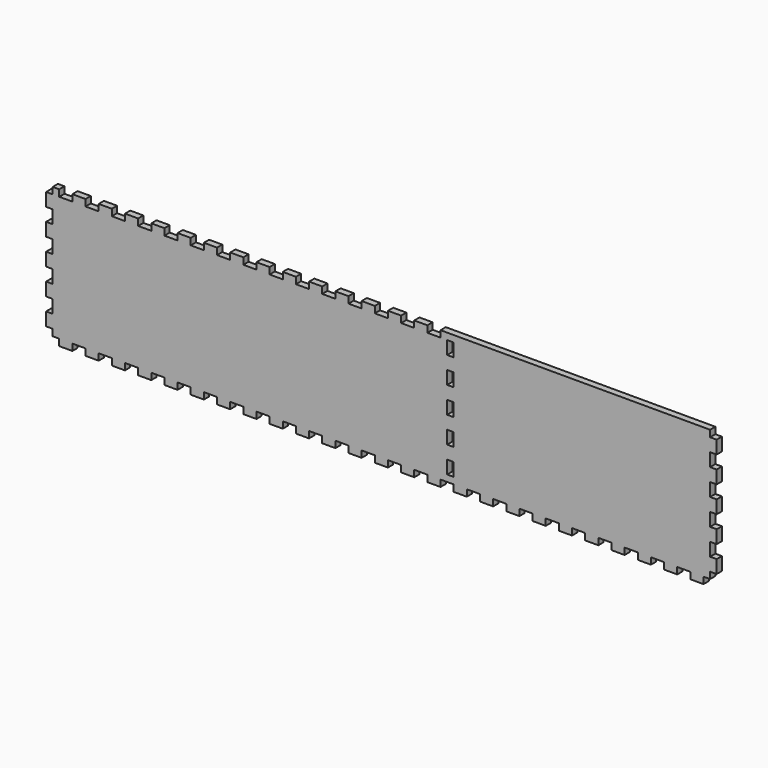
from build123d import *

# Parameters (mm, degrees)
SKETCH088_W             = 500
SKETCH088_H             = 100
PAD047_DEPTH            = 5
SKETCH089_W             = 10
SKETCH089_H             = 5
PAD048_DEPTH            = 5
LINEARPATTERN046_COUNT  = 25
LINEARPATTERN046_PITCH  = 20
SKETCH090_W             = 10
SKETCH090_H             = 5
PAD049_DEPTH            = 5
LINEARPATTERN047_COUNT  = 5
LINEARPATTERN047_PITCH  = 20
SKETCH091_W             = 10
SKETCH091_H             = 5
PAD050_DEPTH            = 5
LINEARPATTERN048_COUNT  = 5
LINEARPATTERN048_PITCH  = 20
SKETCH119_W             = 5
SKETCH119_H             = 10
POCKET029_DEPTH         = 5
LINEARPATTERN071_COUNT  = 5
LINEARPATTERN071_PITCH  = 20
SKETCH130_W             = 10
SKETCH130_H             = 5
POCKET039_DEPTH         = 5
LINEARPATTERN082_COUNT  = 15
LINEARPATTERN082_PITCH  = 20
BODY035_PLACEMENT_ANGLE = 90


with BuildPart() as part:
    # Sketch088 → Pad047 (new body)
    with BuildSketch(Plane.XY):
        Rectangle(SKETCH088_W, SKETCH088_H)
    extrude(amount=PAD047_DEPTH)

    # Sketch089 (on DatumPlane) → Pad048 (join)
    with BuildSketch(Plane.XZ.offset(50)):
        with Locations((-240, 2.5)):
            Rectangle(SKETCH089_W, SKETCH089_H)
    pad048 = extrude(amount=PAD048_DEPTH)

    # LinearPattern046: Pad048 ×25
    with Locations(*[(i * LINEARPATTERN046_PITCH, 0, 0) for i in range(1, LINEARPATTERN046_COUNT)]):
        add(pad048)

    # Sketch090 (on DatumPlane) → Pad049 (join)
    with BuildSketch(Plane.YZ.offset(250)):
        with Locations((-40, 2.5)):
            Rectangle(SKETCH090_W, SKETCH090_H)
    pad049 = extrude(amount=PAD049_DEPTH)

    # LinearPattern047: Pad049 ×5
    with Locations(*[(0, i * LINEARPATTERN047_PITCH, 0) for i in range(1, LINEARPATTERN047_COUNT)]):
        add(pad049)

    # Sketch091 (on DatumPlane) → Pad050 (join)
    with BuildSketch(Plane(origin=(-250, 0, 0), x_dir=(0, -1, 0), z_dir=(-1, 0, 0))):
        with Locations((-40, 2.5)):
            Rectangle(SKETCH091_W, SKETCH091_H)
    pad050 = extrude(amount=PAD050_DEPTH)

    # LinearPattern048: Pad050 ×5
    with Locations(*[(0, -i * LINEARPATTERN048_PITCH, 0) for i in range(1, LINEARPATTERN048_COUNT)]):
        add(pad050)

    # Sketch119 (on DatumPlane) → Pocket029 (cut)
    with BuildSketch(Plane(origin=(0, 0, 0), x_dir=(-1, 0, 0), z_dir=(0, 0, -1))):
        with Locations((-52.5, 40)):
            Rectangle(SKETCH119_W, SKETCH119_H)
    pocket029 = extrude(amount=-POCKET029_DEPTH, mode=Mode.SUBTRACT)

    # LinearPattern071: Pocket029 ×5
    with Locations(*[(0, -i * LINEARPATTERN071_PITCH, 0) for i in range(1, LINEARPATTERN071_COUNT)]):
        add(pocket029, mode=Mode.SUBTRACT)

    # Sketch130 (on DatumPlane) → Pocket039 (cut)
    with BuildSketch(Plane(origin=(0, 50, 0), x_dir=(-1, 0, 0), z_dir=(0, 1, 0))):
        with Locations((240, 2.5)):
            Rectangle(SKETCH130_W, SKETCH130_H)
    pocket039 = extrude(amount=-POCKET039_DEPTH, mode=Mode.SUBTRACT)

    # LinearPattern082: Pocket039 ×15
    with Locations(*[(i * LINEARPATTERN082_PITCH, 0, 0) for i in range(1, LINEARPATTERN082_COUNT)]):
        add(pocket039, mode=Mode.SUBTRACT)


with BuildPart() as part_1:
    # Body035 placement: moved
    add(part.part.moved(Location((0, -45, 55))).rotate(Axis((0, -45, 55), (1, 0, 0)), BODY035_PLACEMENT_ANGLE))


solid = part_1.part
